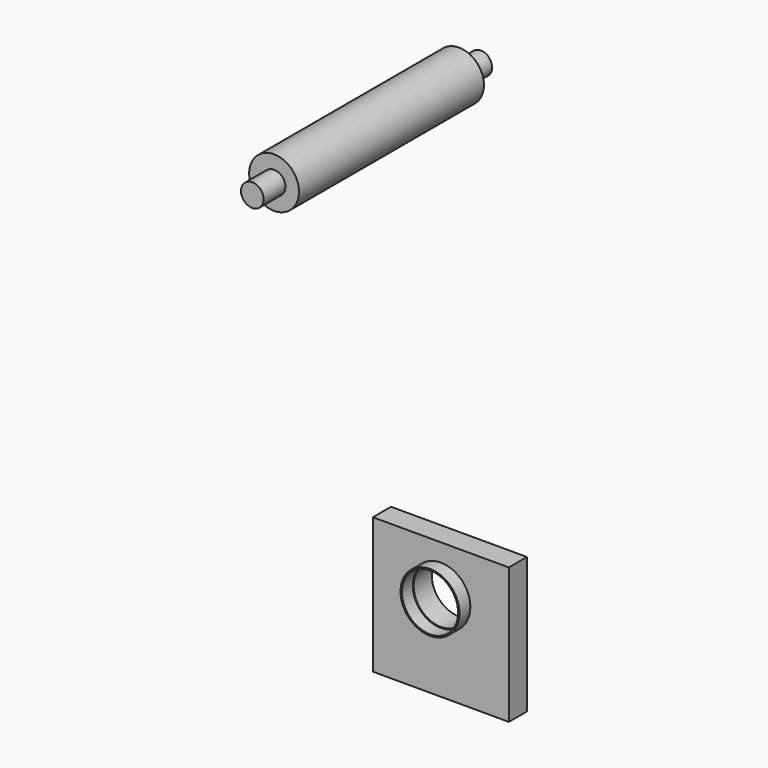
from build123d import *

# Parameters (mm, degrees)
F0_R      = 6
F0_R_2    = 5.7
F1_DEPTH  = 50
F2_R      = 5.5
F3_DEPTH  = 51
F4_R      = 8.5
F5_DEPTH  = 4
F6_R      = 2.5
F7_DEPTH  = 6
F9_W      = 30
F9_H      = 30
F10_DEPTH = 5
F12_D     = 12
F13_R     = 6.5
F13_R_2   = 6.2
F14_DEPTH = 3
F15_R     = 5.5
F16_DEPTH = 39
F18_D     = 5
F18_DEPTH = 8
F18_TIP   = 1.5021515476
F8_R      = 2.5
F19_DEPTH = 6


with BuildPart() as f1:
    # F0 (on Front) → F1 (new body)
    with BuildSketch(Plane.XZ):
        Circle(F0_R)
        Circle(F0_R_2, mode=Mode.SUBTRACT)
    extrude(amount=F1_DEPTH)


with BuildPart() as f3:
    # F2 (on Front) → F3 (new body)
    with BuildSketch(Plane.XZ):
        with Locations((0, 53.1284292551)):
            Circle(F2_R)
    extrude(amount=F3_DEPTH)

    # F6 (on face) → F7 (join)
    with BuildSketch(Plane.XZ.offset(51)):
        with Locations((0, 53.1284292551)):
            Circle(F6_R)
    extrude(amount=F7_DEPTH)

    # F8 (on face) → F19 (join)
    with BuildSketch(Plane(origin=(0, 0, 0), x_dir=(-1, 0, 0), z_dir=(0, 1, 0))):
        with Locations((0, 53.1284292551)):
            Circle(F8_R)
    extrude(amount=F19_DEPTH)


with BuildPart() as f5:
    # F4 (on Front) → F5 (new body)
    with BuildSketch(Plane.XZ):
        with Locations((0, 21.613052828)):
            Circle(F4_R)
    extrude(amount=F5_DEPTH)

    # F15 (on face) → F16 (join)
    with BuildSketch(Plane.XZ.offset(4)):
        with Locations((0, 21.613052828)):
            Circle(F15_R)
    extrude(amount=F16_DEPTH)

    # F18
    with Locations(Plane.XZ.offset(43)):
        with Locations((0, 21.613052828)):
            Hole(F18_D / 2, depth=F18_DEPTH)
            with Locations((0, 0, -(F18_DEPTH + F18_TIP / 2))):  # 118° drill point
                Cone(0, F18_D / 2, F18_TIP, mode=Mode.SUBTRACT)


with BuildPart() as f10:
    # F9 (on Front) → F10 (new body)
    with BuildSketch(Plane.XZ):
        with Locations((0, -50.4402406514)):
            Rectangle(F9_W, F9_H)
    extrude(amount=F10_DEPTH)

    # F12 (through all)
    with Locations(Plane(origin=(0, 0, 0), x_dir=(1, 0, 0), z_dir=(0, 1, 0))):
        with Locations((0, 45.8755606015)):
            Hole(F12_D / 2)

    # F13 (on face) → F14 (join)
    with BuildSketch(Plane.XZ.offset(5)):
        with Locations((0, -45.8755606015)):
            Circle(F13_R)
        with Locations((0, -45.8755606015)):
            Circle(F13_R_2, mode=Mode.SUBTRACT)
    extrude(amount=F14_DEPTH)


with BuildPart() as f22_1:
    # F22: copy of F3
    add(f3.part)


solid = Compound([f3.part, f10.part])
